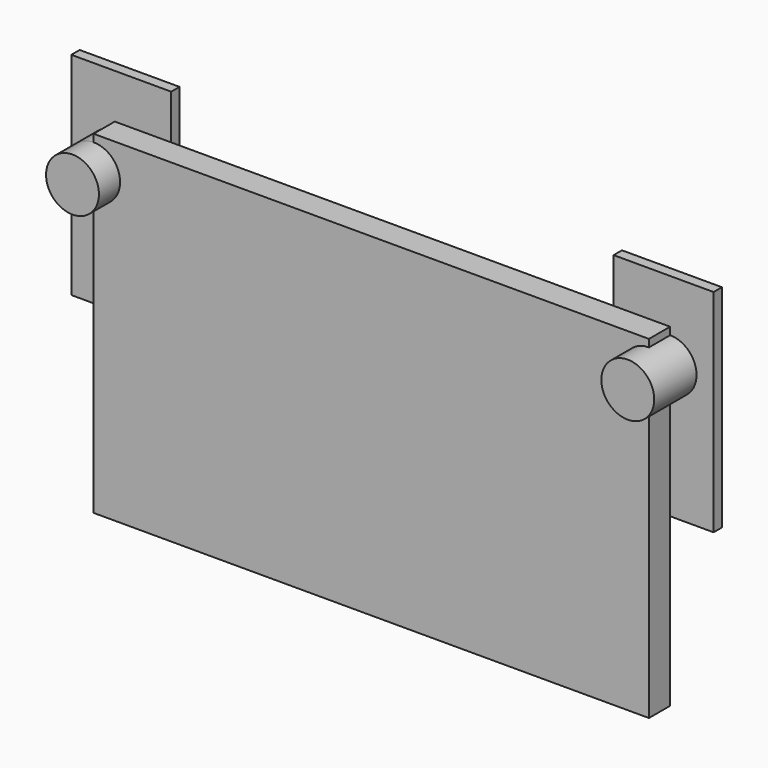
from build123d import *

# Parameters (mm, degrees)
F0_W     = 133.35
F0_H     = 80.150222
F1_DEPTH = 6.35
F2_W     = 23.997132
F2_H     = 2.50613
F3_DEPTH = 50.8
F4_W     = 24.441525
F4_H     = 10.443195
F5_DEPTH = 9.525
F6_R     = 6.35
F7_DEPTH = 6.35


with BuildPart() as f1:
    # F0 (on Front) → F1 (new body)
    with BuildSketch(Plane.XZ):
        Rectangle(F0_W, F0_H)
    extrude(amount=F1_DEPTH)


with BuildPart() as f3:
    # F2 (on Top) → F3 (new body)
    with BuildSketch(Plane.XY):
        with Locations((-65.116679, 1.253065)):
            Rectangle(F2_W, F2_H)
        with Locations((65.116679, 1.253065)):
            Rectangle(F2_W, F2_H)
    extrude(amount=F3_DEPTH)


with BuildPart() as f5:
    # F4 (on Top) → F5 (new body, symmetric)
    with BuildSketch(Plane.XY):
        with Locations((-39.909392, 8.220365)):
            Rectangle(F4_W, F4_H)
        with Locations((39.909392, 8.220365)):
            Rectangle(F4_W, F4_H)
    extrude(amount=F5_DEPTH, both=True)


with BuildPart() as f7:
    # F6 (on face) → F7 (new body, symmetric)
    with BuildSketch(Plane.XZ.offset(6.35)):
        with Locations((-66.675, 31.929594)):
            Circle(F6_R)
        with Locations((66.675, 31.929594)):
            Circle(F6_R)
    extrude(amount=F7_DEPTH, both=True)


solid = Compound([f1.part, f3.part, f5.part, f7.part])
